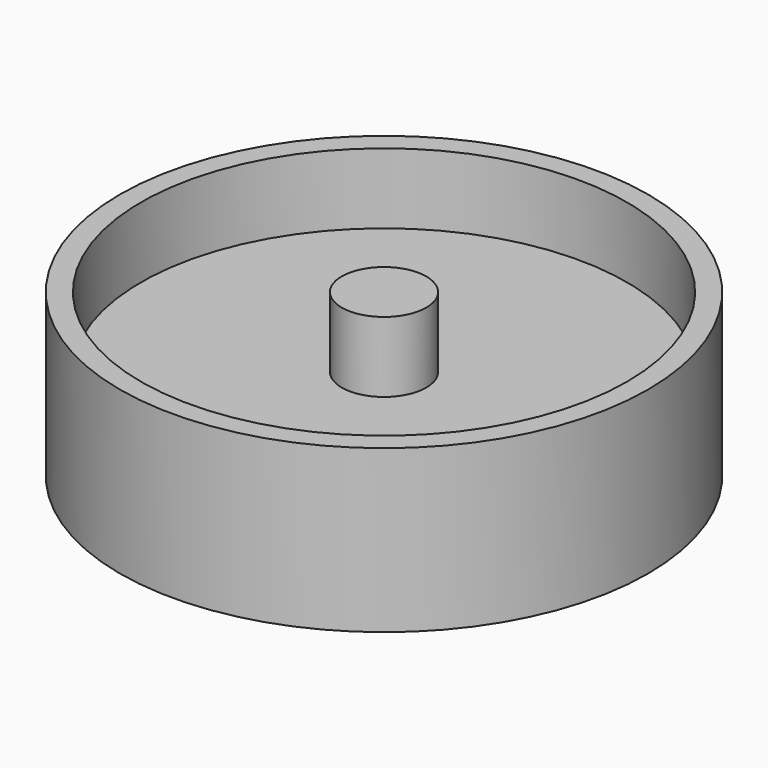
from build123d import *

# Parameters (mm, degrees)
F0_R     = 37.5
F1_DEPTH = 23
F2_R     = 34.5
F2_R_2   = 6
F3_DEPTH = 10
F4_R     = 34.5
F4_R_2   = 6
F5_DEPTH = 10


with BuildPart() as f1:
    # F0 (on Top) → F1 (new body)
    with BuildSketch(Plane.XY):
        Circle(F0_R)
    extrude(amount=F1_DEPTH)

    # F2 (on face) → F3 (cut)
    with BuildSketch(Plane.XY.offset(23)):
        Circle(F2_R)
        Circle(F2_R_2, mode=Mode.SUBTRACT)
    extrude(amount=-F3_DEPTH, mode=Mode.SUBTRACT)

    # F4 (on face) → F5 (cut)
    with BuildSketch(Plane(origin=(0, 0, 0), x_dir=(1, 0, 0), z_dir=(0, 0, -1))):
        Circle(F4_R)
        Circle(F4_R_2, mode=Mode.SUBTRACT)
    extrude(amount=-F5_DEPTH, mode=Mode.SUBTRACT)


solid = f1.part
